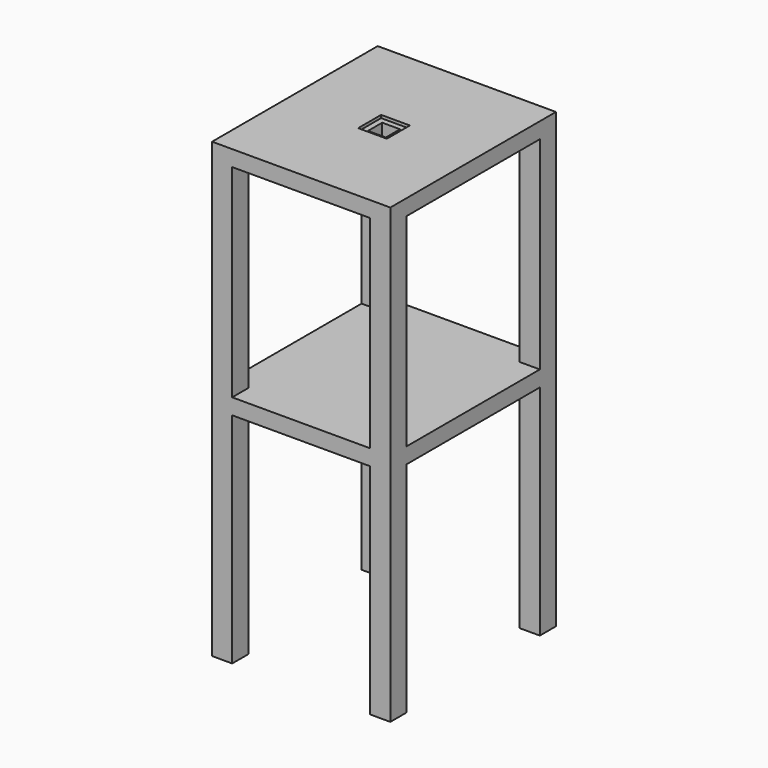
from build123d import *

# Parameters (mm, degrees)
SKETCH_W            = 310
SKETCH_H            = 360
PAD_DEPTH           = 27.5
SKETCH001_W         = 35
SKETCH001_H         = 35
PAD001_DEPTH        = 760
LINEARPATTERN_COUNT = 2
LINEARPATTERN_PITCH = 380
SKETCH002_W         = 31
SKETCH002_H         = 31
POCKET_DEPTH        = 28
SKETCH003_W         = 50
SKETCH003_H         = 50
POCKET001_DEPTH     = 5


with BuildPart() as part:
    # Sketch → Pad (new body)
    with BuildSketch(Plane.XY):
        Rectangle(SKETCH_W, SKETCH_H)
    pad = extrude(amount=PAD_DEPTH)

    # Sketch001 (on Face5 of Pad) → Pad001 (join)
    with BuildSketch(Plane(origin=(0, 0, 0), x_dir=(1, 0, 0), z_dir=(0, 0, -1))):
        with Locations((-137.5, 162.5)):
            Rectangle(SKETCH001_W, SKETCH001_H)
        with Locations((-137.5, -162.5)):
            Rectangle(SKETCH001_W, SKETCH001_H)
        with Locations((137.5, 162.5)):
            Rectangle(SKETCH001_W, SKETCH001_H)
        with Locations((137.5, -162.5)):
            Rectangle(SKETCH001_W, SKETCH001_H)
    extrude(amount=PAD001_DEPTH)

    # LinearPattern: Pad ×2
    with Locations(*[(0, 0, -i * LINEARPATTERN_PITCH) for i in range(1, LINEARPATTERN_COUNT)]):
        add(pad)

    # Sketch002 (on Face15 of LinearPattern) → Pocket (cut)
    with BuildSketch(Plane.XY.offset(27.5)):
        Rectangle(SKETCH002_W, SKETCH002_H)
    extrude(amount=-POCKET_DEPTH, mode=Mode.SUBTRACT)

    # Sketch003 (on Face16 of Pocket) → Pocket001 (cut)
    with BuildSketch(Plane.XY.offset(27.5)):
        Rectangle(SKETCH003_W, SKETCH003_H)
    extrude(amount=-POCKET001_DEPTH, mode=Mode.SUBTRACT)


solid = part.part
